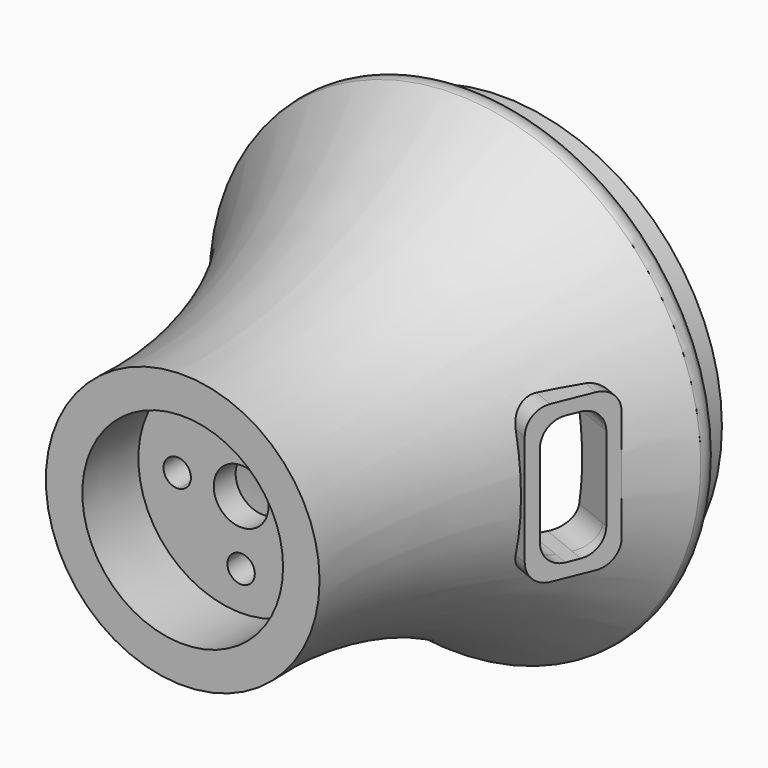
from build123d import *

# Parameters (mm, degrees)
F3_DEPTH = 25
F7_DEPTH = 8
F8_DEPTH = 12.7


with BuildPart() as f1:
    # F0 (on Top) → F1 (revolve)
    with BuildSketch(Plane.XY):
        with BuildLine():
            Line((6, 22), (6, 16))
            Line((6, 16), (22.248531, 16))
            Line((22.248531, 16), (22.522323, 16))
            Line((22.522323, 16), (22, 0))
            Line((22, 0), (30, 0))
            ThreePointArc((30, 0), (35.17496, 39.465047), (53.825141, 74.628109))
            ThreePointArc((53.825141, 74.628109), (53.428757, 77.857858), (50.763307, 79.724346))
            Line((50.763307, 79.724346), (48, 79.724346))
            Line((48, 79.724346), (48, 87.724346))
            Line((48, 87.724346), (40, 87.724346))
            Line((40, 87.724346), (40, 80))
            Line((40, 80), (40, 68.826427))
            ThreePointArc((40, 68.826427), (39.137165, 67.419082), (38.293772, 66))
            ThreePointArc((38.293772, 66), (28.503213, 44.747977), (23.022968, 22))
            Line((23.022968, 22), (6, 22))
        make_face()
    revolve(axis=Axis((0, 86, 0), (0, 1, 0)))

    # F2 (on face) → F3 (cut)
    with BuildSketch(Plane.XZ.offset(-16)):
        with BuildLine():
            ThreePointArc((3, 14), (-0.160946, 16.99568), (-2.982731, 13.678571))
            ThreePointArc((-2.982731, 13.678571), (0, 11), (2.982731, 13.678571))
            ThreePointArc((2.982731, 13.678571), (2.99568, 13.839054), (3, 14))
        make_face()
        with BuildLine():
            ThreePointArc((13.678571, 2.982731), (11, 0), (13.678571, -2.982731))
            ThreePointArc((13.678571, -2.982731), (16.004459, -2.232071), (17, 0))
            ThreePointArc((17, 0), (16.004459, 2.232071), (13.678571, 2.982731))
        make_face()
        with BuildLine():
            ThreePointArc((2.982731, -13.678571), (0, -11), (-2.982731, -13.678571))
            ThreePointArc((-2.982731, -13.678571), (-0.160946, -16.99568), (3, -14))
            ThreePointArc((3, -14), (2.99568, -13.839054), (2.982731, -13.678571))
        make_face()
        with BuildLine():
            ThreePointArc((-13.678571, 2.982731), (-17, 0), (-13.678571, -2.982731))
            ThreePointArc((-13.678571, -2.982731), (-11.767929, -2.004459), (-11, 0))
            ThreePointArc((-11, 0), (-11.767929, 2.004459), (-13.678571, 2.982731))
        make_face()
    extrude(amount=-F3_DEPTH, mode=Mode.SUBTRACT)

    # F6 (on face) → F7 (join)
    with BuildSketch(Plane(origin=(9.919347, -4.033802, 0), x_dir=(0.376703, 0.926334, 0), z_dir=(0.926334, -0.376703, 0))):
        with BuildLine():
            Line((75.603179, -12.171984), (75.603179, 0))
            Line((75.603179, 0), (75.603179, 12.171984))
            ThreePointArc((75.603179, 12.171984), (74.138713, 15.707518), (70.603179, 17.171984))
            Line((70.603179, 17.171984), (61.603179, 17.171984))
            ThreePointArc((61.603179, 17.171984), (58.067646, 15.707518), (56.603179, 12.171984))
            Line((56.603179, 12.171984), (56.603179, 0))
            Line((56.603179, 0), (56.603179, -12.171984))
            ThreePointArc((56.603179, -12.171984), (58.067646, -15.707518), (61.603179, -17.171984))
            Line((61.603179, -17.171984), (70.603179, -17.171984))
            ThreePointArc((70.603179, -17.171984), (74.138713, -15.707518), (75.603179, -12.171984))
        make_face()
        with BuildLine():
            Line((72.603179, 9.171984), (72.603179, 0))
            Line((72.603179, 0), (72.603179, -9.171984))
            ThreePointArc((72.603179, -9.171984), (71.138713, -12.707518), (67.603179, -14.171984))
            Line((67.603179, -14.171984), (64.603179, -14.171984))
            ThreePointArc((64.603179, -14.171984), (61.067646, -12.707518), (59.603179, -9.171984))
            Line((59.603179, -9.171984), (59.603179, 0))
            Line((59.603179, 0), (59.603179, 9.171984))
            ThreePointArc((59.603179, 9.171984), (61.067646, 12.707518), (64.603179, 14.171984))
            Line((64.603179, 14.171984), (67.603179, 14.171984))
            ThreePointArc((67.603179, 14.171984), (71.138713, 12.707518), (72.603179, 9.171984))
        make_face(mode=Mode.SUBTRACT)
    extrude(amount=F7_DEPTH)

    # F6 (on face) → F8 (cut, symmetric)
    with BuildSketch(Plane(origin=(9.919347, -4.033802, 0), x_dir=(0.376703, 0.926334, 0), z_dir=(0.926334, -0.376703, 0))):
        with BuildLine():
            Line((72.603179, -9.171984), (72.603179, 0))
            Line((72.603179, 0), (72.603179, 9.171984))
            ThreePointArc((72.603179, 9.171984), (71.138713, 12.707518), (67.603179, 14.171984))
            Line((67.603179, 14.171984), (64.603179, 14.171984))
            ThreePointArc((64.603179, 14.171984), (61.067646, 12.707518), (59.603179, 9.171984))
            Line((59.603179, 9.171984), (59.603179, 0))
            Line((59.603179, 0), (59.603179, -9.171984))
            ThreePointArc((59.603179, -9.171984), (61.067646, -12.707518), (64.603179, -14.171984))
            Line((64.603179, -14.171984), (67.603179, -14.171984))
            ThreePointArc((67.603179, -14.171984), (71.138713, -12.707518), (72.603179, -9.171984))
        make_face()
    extrude(amount=F8_DEPTH, both=True, mode=Mode.SUBTRACT)


solid = f1.part
